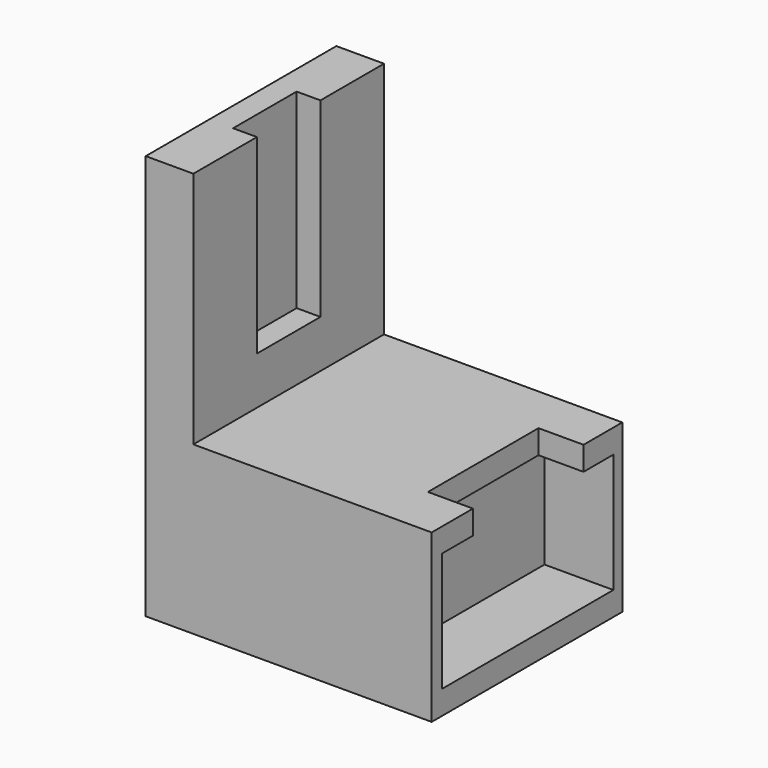
from build123d import *

# Parameters (mm, degrees)
SKETCH021_W       = 18.9
SKETCH021_H       = 58
EXTRUDE021_DEPTH  = 10
SKETCH020_W       = 90
SKETCH020_H       = 50
EXTRUDE020_DEPTH  = 200
CYLINDER_R        = 2.5
CYLINDER_DEPTH    = 70
CYLINDER002_R     = 2.5
CYLINDER002_DEPTH = 70
BOX001_W          = 82
BOX001_H          = 58
BOX001_DEPTH      = 44.4
BOX011_W          = 5
BOX011_H          = 5
BOX011_DEPTH      = 44.4
SKETCH001_R       = 5
EXTRUDE001_DEPTH  = 4
EXTRUDE002_DEPTH  = 15
SKETCH010_R       = 12.3
EXTRUDE010_DEPTH  = 5
BOX_W             = 75.7
BOX_H             = 45
BOX_DEPTH         = 44.4
BOX008_W          = 68.15
BOX008_H          = 15
BOX008_DEPTH      = 50
BOX009_W          = 68.15
BOX009_H          = 15
BOX009_DEPTH      = 50
BOX012_W          = 30
BOX012_H          = 100
BOX012_DEPTH      = 70
EXTRUDE003_DEPTH  = 25
BOX010_W          = 40
BOX010_H          = 120
BOX010_DEPTH      = 60
TUBE_R            = 45
TUBE_R_2          = 19.07
TUBE_DEPTH        = 50
BOX002_W          = 175
BOX002_H          = 90
BOX002_DEPTH      = 50
SKETCH016_W       = 10
SKETCH016_H       = 33.333334
EXTRUDE016_DEPTH  = 80
SKETCH_W          = 20
SKETCH_H          = 100
EXTRUDE_DEPTH     = 100
BOX017_W          = 120
BOX017_H          = 100
BOX017_DEPTH      = 70


with BuildPart() as extrude021:
    # Sketch021 (on Face14 of Cut017) → Extrude021 (new body)
    with BuildSketch(Plane(origin=(0, 0, 44.4), x_dir=(1, 0, 0), z_dir=(0, 0, -1))):
        with Locations((-72.55, -19.37)):
            Rectangle(SKETCH021_W, SKETCH021_H)
    extrude(amount=-EXTRUDE021_DEPTH)


with BuildPart() as extrude020:
    # Sketch020 (on Face26 of Cut016) → Extrude020 (new body)
    with BuildSketch(Plane.YZ.offset(-92)):
        with Locations((19, 15)):
            Rectangle(SKETCH020_W, SKETCH020_H)
    extrude(amount=EXTRUDE020_DEPTH)


with BuildPart() as throughholecylinder2:
    # Cylinder → Cylinder (new body)
    with BuildSketch(Plane(origin=(-86, -18, -20), x_dir=(1, 0, 0), z_dir=(0, 0, 1))):
        Circle(CYLINDER_R)
    extrude(amount=CYLINDER_DEPTH)


with BuildPart() as throughholecylinder1:
    # Cylinder002 → Cylinder002 (new body)
    with BuildSketch(Plane(origin=(-86, 56, -20), x_dir=(1, 0, 0), z_dir=(0, 0, 1))):
        Circle(CYLINDER002_R)
    extrude(amount=CYLINDER002_DEPTH)


with BuildPart() as motorhead:
    # Box001 → Box001 (new body)
    with BuildSketch(Plane(origin=(-82, -9.63, 0), x_dir=(1, 0, 0), z_dir=(0, 0, 1))):
        with Locations((41, 29)):
            Rectangle(BOX001_W, BOX001_H)
    extrude(amount=BOX001_DEPTH)


with BuildPart() as obj1:
    # Box011 → Box011 (new body)
    with BuildSketch(Plane(origin=(75.7, 16.87, 0), x_dir=(1, 0, 0), z_dir=(0, 0, 1))):
        with Locations((2.5, 2.5)):
            Rectangle(BOX011_W, BOX011_H)
    extrude(amount=BOX011_DEPTH)


with BuildPart() as obj2:
    # Sketch001 (on Face3 of Extrude010) → Extrude001 (new body)
    with BuildSketch(Plane.XY.offset(49.4)):
        with Locations((-58.7, 20.37)):
            Circle(SKETCH001_R)
    extrude(amount=EXTRUDE001_DEPTH)


with BuildPart() as obj3:
    # Sketch002 (on Face3 of Extrude001) → Extrude002 (new body)
    with BuildSketch(Plane.XY.offset(53.4)):
        with BuildLine():
            Line((-62.7, 23.37), (-62.7, 17.37))
            ThreePointArc((-62.7, 17.37), (-53.7, 20.37), (-62.7, 23.37))
        make_face()
    extrude(amount=EXTRUDE002_DEPTH)


with BuildPart() as motorshaftassembly:
    # Sketch010 (on Face6 of Box001) → Extrude010 (new body)
    with BuildSketch(Plane(origin=(-82, -9.63, 44.4), x_dir=(1, 0, 0), z_dir=(0, 0, 1))):
        with Locations((23.3, 30)):
            Circle(SKETCH010_R)
    extrude(amount=EXTRUDE010_DEPTH)

    # Fusion002: union obj2, obj3
    add(obj2.part)
    add(obj3.part)


with BuildPart() as motor:
    # Box → Box (new body)
    with BuildSketch(Plane(origin=(0, -3.13, 0), x_dir=(1, 0, 0), z_dir=(0, 0, 1))):
        with Locations((37.85, 22.5)):
            Rectangle(BOX_W, BOX_H)
    extrude(amount=BOX_DEPTH)

    # Fusion005: union MotorHead, obj1, MotorShaftAssembly
    add(motorhead.part)
    add(obj1.part)
    add(motorshaftassembly.part)


with BuildPart() as cube008:
    # Box008 → Box008 (new body)
    with BuildSketch(Plane(origin=(41, -26, -10), x_dir=(1, 0, 0), z_dir=(0, 0, 1))):
        with Locations((34.075, 7.5)):
            Rectangle(BOX008_W, BOX008_H)
    extrude(amount=BOX008_DEPTH)


with BuildPart() as cube009:
    # Box009 → Box009 (new body)
    with BuildSketch(Plane(origin=(41, 49, -10), x_dir=(1, 0, 0), z_dir=(0, 0, 1))):
        with Locations((34.075, 7.5)):
            Rectangle(BOX009_W, BOX009_H)
    extrude(amount=BOX009_DEPTH)


with BuildPart() as steeringshaftcutter:
    # Box012 → Box012 (new body)
    with BuildSketch(Plane(origin=(136, -31, -14), x_dir=(1, 0, 0), z_dir=(0, 0, 1))):
        with Locations((15, 50)):
            Rectangle(BOX012_W, BOX012_H)
    extrude(amount=BOX012_DEPTH)


with BuildPart() as fingers:
    # Sketch004 (on Face2 of Tube) → Extrude003 (new body)
    with BuildSketch(Plane(origin=(120.15, 19, 40), x_dir=(1, 0, 0), z_dir=(0, 0, 1))):
        with BuildLine():
            Line((16.519435, -9.5375), (20.849562, -12.0375))
            ThreePointArc((12.0375, -20.849562), (17.023596, -17.023596), (20.849562, -12.0375))
            Line((12.0375, -20.849562), (9.5375, -16.519435))
            ThreePointArc((9.5375, -16.519435), (13.488062, -13.488062), (16.519435, -9.5375))
        make_face()
        with BuildLine():
            Line((0, -24.075), (0, -19.07))
            ThreePointArc((-9.535, -16.515104), (-4.935679, -18.420206), (0, -19.07))
            Line((-9.535, -16.515104), (-12.0375, -20.849562))
            ThreePointArc((-12.0375, -20.849562), (-6.231069, -23.254664), (0, -24.075))
        make_face()
        with BuildLine():
            Line((-20.849562, -12.0375), (-16.515104, -9.535))
            ThreePointArc((-19.07, 0), (-18.420206, -4.935679), (-16.515104, -9.535))
            Line((-19.07, 0), (-24.075, 0))
            ThreePointArc((-24.075, 0), (-23.254664, -6.231069), (-20.849562, -12.0375))
        make_face()
        with BuildLine():
            Line((-16.519435, 9.5375), (-20.849562, 12.0375))
            ThreePointArc((-12.0375, 20.849562), (-17.023596, 17.023596), (-20.849562, 12.0375))
            Line((-12.0375, 20.849562), (-9.5375, 16.519435))
            ThreePointArc((-9.5375, 16.519435), (-13.488062, 13.488062), (-16.519435, 9.5375))
        make_face()
        with BuildLine():
            Line((0, 24.075), (0, 19.075))
            ThreePointArc((9.5375, 16.519435), (4.936973, 18.425035), (0, 19.075))
            Line((9.5375, 16.519435), (12.0375, 20.849562))
            ThreePointArc((12.0375, 20.849562), (6.231069, 23.254664), (0, 24.075))
        make_face()
        with BuildLine():
            Line((16.515104, 9.535), (20.849562, 12.0375))
            ThreePointArc((24.075, 0), (23.254664, 6.231069), (20.849562, 12.0375))
            Line((19.07, 0), (24.075, 0))
            ThreePointArc((19.07, 0), (18.420206, 4.935679), (16.515104, 9.535))
        make_face()
    extrude(amount=EXTRUDE003_DEPTH)


with BuildPart() as fingers_1:
    # Extrude003 placement: moved
    add(fingers.part.moved(Location((0, 0, -5))))


with BuildPart() as obj4:
    # Box010 → Box010 (new body)
    with BuildSketch(Plane(origin=(55, -34, -17), x_dir=(1, 0, 0), z_dir=(0, 0, 1))):
        with Locations((20, 60)):
            Rectangle(BOX010_W, BOX010_H)
    extrude(amount=BOX010_DEPTH)


with BuildPart() as steeringshaftcutdown:
    # Tube → Tube (new body)
    with BuildSketch(Plane(origin=(120.15, 19, -10), x_dir=(1, 0, 0), z_dir=(0, 0, 1))):
        Circle(TUBE_R)
        Circle(TUBE_R_2, mode=Mode.SUBTRACT)
    extrude(amount=TUBE_DEPTH)

    # Cut005: cut obj4
    add(obj4.part, mode=Mode.SUBTRACT)

    # Fusion004: union Fingers
    add(fingers_1.part)


with BuildPart() as steeringshaftcutdown_1:
    # Fusion004 placement: moved
    add(steeringshaftcutdown.part.moved(Location((-12, 0, 0))))

    # Cut006: cut SteeringShaftCutter
    add(steeringshaftcutter.part, mode=Mode.SUBTRACT)


with BuildPart() as motormount:
    # Box002 → Box002 (new body)
    with BuildSketch(Plane(origin=(-92, -26, -10), x_dir=(1, 0, 0), z_dir=(0, 0, 1))):
        with Locations((87.5, 45)):
            Rectangle(BOX002_W, BOX002_H)
    extrude(amount=BOX002_DEPTH)

    # Fusion: union Motor, Cube008, Cube009, SteeringShaftCutDown
    add(motor.part)
    add(cube008.part)
    add(cube009.part)
    add(steeringshaftcutdown_1.part)

    # Cut: cut ThroughHoleCylinder1
    add(throughholecylinder1.part, mode=Mode.SUBTRACT)

    # Cut013: cut ThroughHoleCylinder2
    add(throughholecylinder2.part, mode=Mode.SUBTRACT)


with BuildPart() as extrude016:
    # Sketch016 (on Face6 of Extrude) → Extrude016 (new body)
    with BuildSketch(Plane.XY.offset(150)):
        with Locations((-168.1, 18.7)):
            Rectangle(SKETCH016_W, SKETCH016_H)
    extrude(amount=-EXTRUDE016_DEPTH)


with BuildPart() as cut015:
    # Sketch (on Face6 of Box017) → Extrude (new body)
    with BuildSketch(Plane(origin=(-183.1, -31.3, 50), x_dir=(1, 0, 0), z_dir=(0, 0, 1))):
        with Locations((10, 50)):
            Rectangle(SKETCH_W, SKETCH_H)
    extrude(amount=EXTRUDE_DEPTH)

    # Cut015: cut Extrude016
    add(extrude016.part, mode=Mode.SUBTRACT)


with BuildPart() as cut018:
    # Box017 → Box017 (new body)
    with BuildSketch(Plane(origin=(-183.1, -31.3, -20), x_dir=(1, 0, 0), z_dir=(0, 0, 1))):
        with Locations((60, 50)):
            Rectangle(BOX017_W, BOX017_H)
    extrude(amount=BOX017_DEPTH)

    # Fusion013: union Cut015
    add(cut015.part)

    # Cut016: cut MotorMount
    add(motormount.part, mode=Mode.SUBTRACT)

    # Cut017: cut Extrude020
    add(extrude020.part, mode=Mode.SUBTRACT)

    # Cut018: cut Extrude021
    add(extrude021.part, mode=Mode.SUBTRACT)


solid = cut018.part
